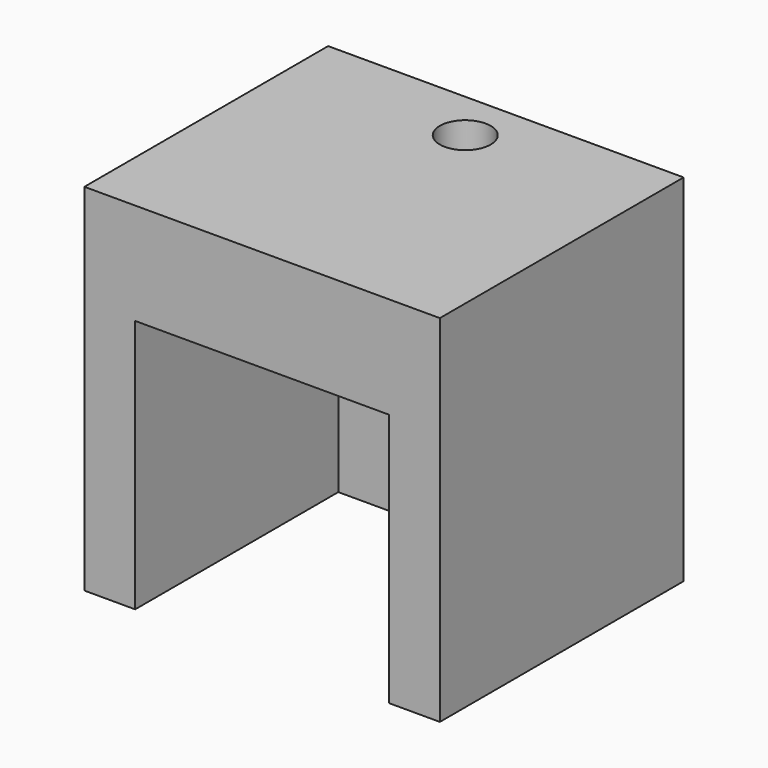
from build123d import *

# Parameters (mm, degrees)
F1_DEPTH = 10
F2_W     = 14
F2_H     = 4.2422189787
F2_H_2   = 7.7577810213
F3_DEPTH = 4
F4_D     = 2
F4_DEPTH = 4.001


with BuildPart() as f1:
    # F0 (on Top) → F1 (new body)
    with BuildSketch(Plane.XY):
        Polygon((7, 6), (-7, 6), (-7, -6), (-5, -6), (-5, 4), (5, 4), (5, -6), (7, -6), align=None)
    extrude(amount=F1_DEPTH)

    # F2 (on face) → F3 (join)
    with BuildSketch(Plane.XY.offset(10)):
        with Locations((0, 3.8788905106)):
            Rectangle(F2_W, F2_H)
        with Locations((0, -2.1211094894)):
            Rectangle(F2_W, F2_H_2)
    extrude(amount=F3_DEPTH)

    # F4 (through all, one way)
    with BuildSketch(Plane(origin=(0, 0, 10), x_dir=(1, 0, 0), z_dir=(0, 0, -1))):
        with Locations((0, -4)):
            Circle(F4_D / 2)
    extrude(amount=-F4_DEPTH, mode=Mode.SUBTRACT)


solid = f1.part
